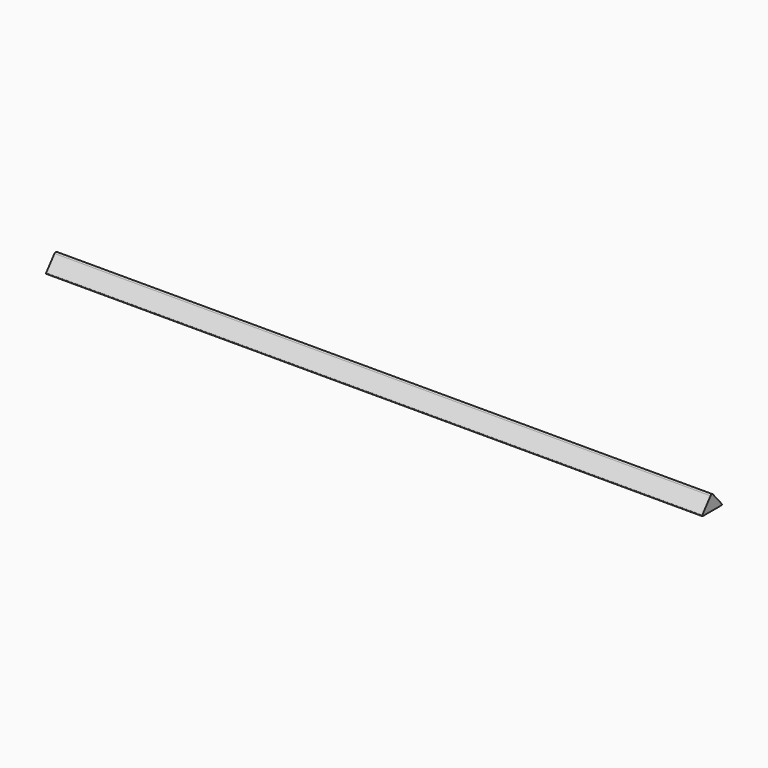
from build123d import *

# Parameters (mm, degrees)
F1_DEPTH = 500


with BuildPart() as f1:
    # F0 (on Right) → F1 (new body, symmetric)
    with BuildSketch(Plane.YZ):
        with BuildLine():
            ThreePointArc((2.345531, -2.735326), (0.024548, -1.688481), (-2.265022, -2.802357))
            Line((-2.265022, -2.802357), (-18.092468, -22.384577))
            ThreePointArc((-18.092468, -22.384577), (-18.217128, -23.444107), (-17.314742, -24.013179))
            Line((-17.314742, -24.013179), (18.4164, -24.013179))
            ThreePointArc((18.4164, -24.013179), (19.324956, -23.430944), (19.175524, -22.362233))
            Line((19.175524, -22.362233), (2.345531, -2.735326))
        make_face()
    extrude(amount=F1_DEPTH, both=True)


solid = f1.part
